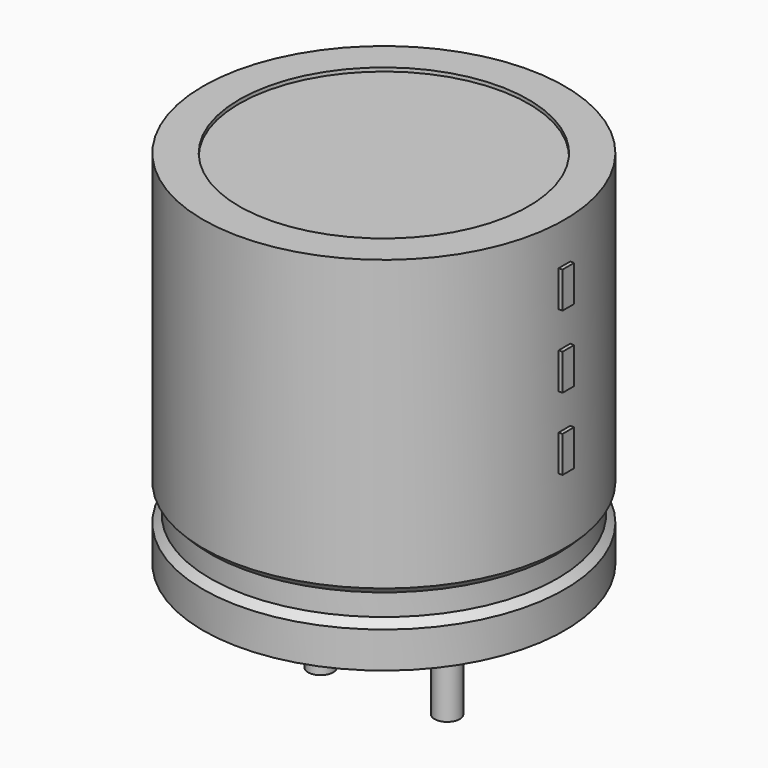
from build123d import *

# Parameters (mm, degrees)
SKETCH002_W  = 4.6
SKETCH002_H  = 9.8
SKETCH003_R  = 0.35
PAD_DEPTH    = 4
SKETCH004_W  = 0.4
SKETCH004_H  = 1
PAD001_DEPTH = 5.1


with BuildPart() as revolution:
    # Sketch → Revolution (revolve)
    with BuildSketch(Plane.XZ):
        Polygon((-3.25, 0.1), (-3.25, 1.1), (-3.05, 1.3), (-3.05, 1.9), (-3.25, 2.1), (-3.25, 10.1), (-2.25, 10.1), (-2.25, 0.1), align=None)
    revolve(axis=Axis((1.75, 0, 7.548619), (0, 0, -1)))


with BuildPart() as revolution001:
    # Sketch002 → Revolution001 (revolve)
    with BuildSketch(Plane.XZ):
        with Locations((-0.55, 5.1)):
            Rectangle(SKETCH002_W, SKETCH002_H)
    revolve(axis=Axis((1.75, 0, 4.680116), (0, 0, -1)))


with BuildPart() as pad:
    # Sketch003 → Pad (new body)
    with BuildSketch(Plane.XY.offset(1)):
        Circle(SKETCH003_R)
        with Locations((3.5, 0)):
            Circle(SKETCH003_R)
    extrude(amount=-PAD_DEPTH)


with BuildPart() as pad001:
    # Sketch004 → Pad001 (new body)
    with BuildSketch(Plane.YZ.offset(1.75)):
        with Locations((0, 4.5)):
            Rectangle(SKETCH004_W, SKETCH004_H)
        with Locations((0, 6.5)):
            Rectangle(SKETCH004_W, SKETCH004_H)
        with Locations((0, 8.5)):
            Rectangle(SKETCH004_W, SKETCH004_H)
    extrude(amount=PAD001_DEPTH)


solid = Compound([revolution.part, revolution001.part, pad.part, pad001.part])
